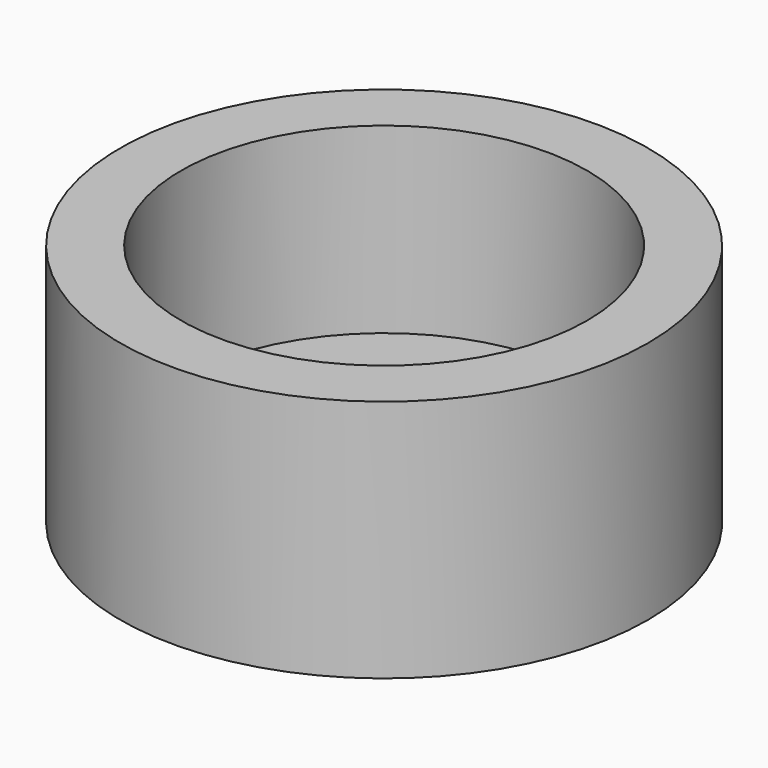
from build123d import *

# Parameters (mm, degrees)
F0_R     = 13
F1_DEPTH = 3
F3_DEPTH = 3
F4_R     = 13
F4_R_2   = 10
F5_DEPTH = 9


with BuildPart() as f1:
    # F0 (on Top) → F1 (new body)
    with BuildSketch(Plane.XY):
        Circle(F0_R)
    extrude(amount=F1_DEPTH)

    # F2 (on face) → F3 (cut)
    with BuildSketch(Plane.XY.offset(3)):
        with BuildLine():
            Line((4.25, 4.25), (-4.25, 4.25))
            ThreePointArc((-4.25, 4.25), (-8.5, 0), (-4.25, -4.25))
            Line((-4.25, -4.25), (4.25, -4.25))
            ThreePointArc((4.25, -4.25), (8.5, 0), (4.25, 4.25))
        make_face()
    extrude(amount=-F3_DEPTH, mode=Mode.SUBTRACT)

    # F4 (on face) → F5 (join)
    with BuildSketch(Plane.XY.offset(3)):
        Circle(F4_R)
        Circle(F4_R_2, mode=Mode.SUBTRACT)
    extrude(amount=F5_DEPTH)


solid = f1.part
